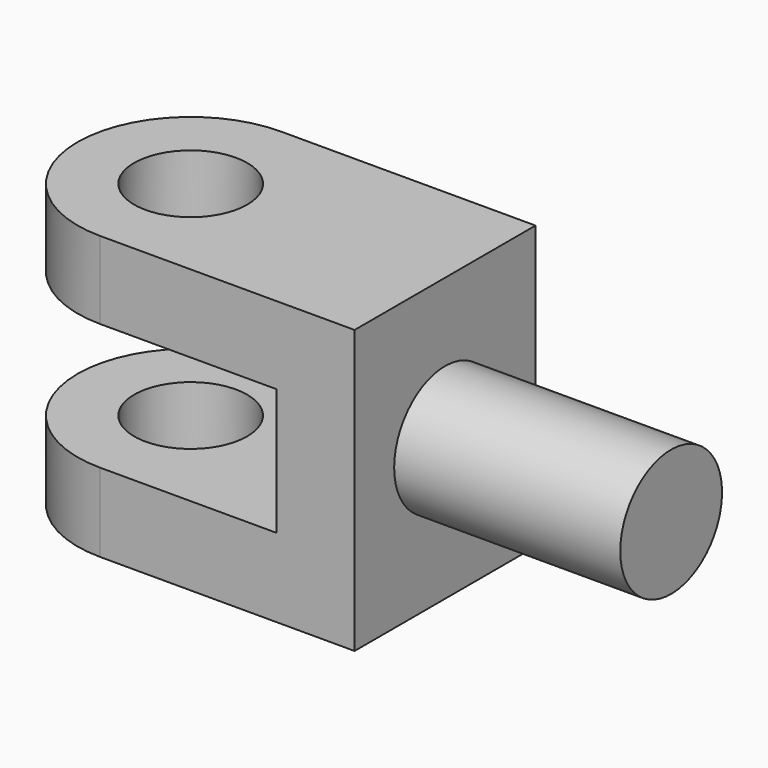
from build123d import *

# Parameters (mm, degrees)
F0_R     = 203.2
F0_W     = 812.8
F0_H     = 457.2
F1_DEPTH = 1016
F2_W     = 634.4814898748
F2_H     = 454.6432495117
F3_DEPTH = 812.801
F4_W     = 457.2
F4_H     = 279.4
F5_DEPTH = 812.8
F7_DEPTH = 812.8


with BuildPart() as f1:
    # F0 (on Top) → F1 (new body)
    with BuildSketch(Plane.XY):
        with BuildLine():
            Line((589.4354466658, 298.5482140541), (-324.9645533342, 298.5482140541))
            ThreePointArc((-324.9645533342, 298.5482140541), (-731.3645533342, -107.8517859459), (-324.9645533342, -514.2517859459))
            Line((-324.9645533342, -514.2517859459), (589.4354466658, -514.2517859459))
            Line((589.4354466658, -514.2517859459), (589.4354466658, -336.4517859459))
            Line((589.4354466658, -336.4517859459), (589.4354466658, 120.7482140541))
            Line((589.4354466658, 120.7482140541), (589.4354466658, 298.5482140541))
        make_face()
        with Locations((-324.9645533342, -107.8517859459)):
            Circle(F0_R, mode=Mode.SUBTRACT)
        with Locations((995.8354466658, -107.8517859459)):
            Rectangle(F0_W, F0_H)
    extrude(amount=F1_DEPTH)

    # F2 (on face) → F3 (cut, through all)
    with BuildSketch(Plane(origin=(0, 298.5482140541, 0), x_dir=(-1, 0, 0), z_dir=(0, 1, 0))):
        with Locations((7.7238083968, 509.9283456802)):
            Rectangle(F2_W, F2_H)
        Polygon((324.9645533342, 737.2499704361), (324.9645533342, 282.6067209244), (821.0112452507, 282.6067209244), (892.6659226418, 737.2499704361), align=None)
    extrude(amount=-F3_DEPTH, mode=Mode.SUBTRACT)

    # F4 (on face) → F5 (cut)
    with BuildSketch(Plane.YZ.offset(1402.2354466658)):
        with Locations((-107.8517859459, 876.3)):
            Rectangle(F4_W, F4_H)
        with Locations((-107.8517859459, 139.7)):
            Rectangle(F4_W, F4_H)
    extrude(amount=-F5_DEPTH, mode=Mode.SUBTRACT)

    # F6 (on face) → F7 (cut)
    with BuildSketch(Plane.YZ.offset(1402.2354466658)):
        with BuildLine():
            Line((120.7482140541, 736.6), (-107.8517859459, 736.6))
            ThreePointArc((-107.8517859459, 736.6), (53.7928242334, 669.6446101792), (120.7482140541, 508))
            Line((120.7482140541, 508), (120.7482140541, 736.6))
        make_face()
        with BuildLine():
            ThreePointArc((120.7482140541, 508), (53.7928242333, 346.3553898207), (-107.8517859459, 279.4))
            Line((-107.8517859459, 279.4), (120.7482140541, 279.4))
            Line((120.7482140541, 279.4), (120.7482140541, 508))
        make_face()
        with BuildLine():
            Line((-336.4517859459, 508), (-336.4517859459, 279.4))
            Line((-336.4517859459, 279.4), (-107.8517859459, 279.4))
            ThreePointArc((-107.8517859459, 279.4), (-269.4963961252, 346.3553898208), (-336.4517859459, 508))
        make_face()
        with BuildLine():
            Line((-336.4517859459, 736.6), (-336.4517859459, 508))
            ThreePointArc((-336.4517859459, 508), (-269.4963961251, 669.6446101792), (-107.8517859459, 736.6))
            Line((-107.8517859459, 736.6), (-336.4517859459, 736.6))
        make_face()
    extrude(amount=-F7_DEPTH, mode=Mode.SUBTRACT)


solid = f1.part
